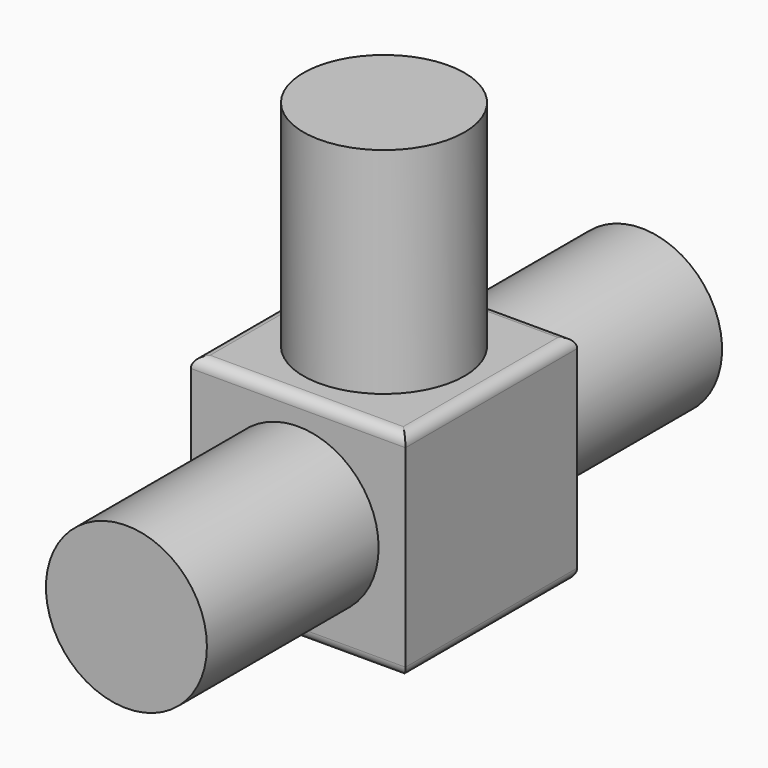
from build123d import *

# Parameters (mm, degrees)
F0_R     = 19.05
F1_DEPTH = 101.6
F0_W     = 50.8
F0_H     = 50.8
F2_DEPTH = 50.8
F3_R     = 19.05
F4_DEPTH = 50.8
F5_R     = 19.05
F6_DEPTH = 50.8
F7_R     = 2.54
F8_R     = 2.54


with BuildPart() as f1:
    # F0 (on Front) → F1 (new body)
    with BuildSketch(Plane.XZ):
        with Locations((25.4, 25.4)):
            Circle(F0_R)
    extrude(amount=F1_DEPTH)

    # F0 (on Front) → F2 (join)
    with BuildSketch(Plane.XZ):
        with Locations((25.4, 25.4)):
            Rectangle(F0_W, F0_H)
        with Locations((25.4, 25.4)):
            Circle(F0_R, mode=Mode.SUBTRACT)
    extrude(amount=F2_DEPTH)

    # F3 (on face) → F4 (join)
    with BuildSketch(Plane.XY.offset(50.8)):
        with Locations((25.4, -25.4)):
            Circle(F3_R)
    extrude(amount=F4_DEPTH)

    # F5 (on face) → F6 (join)
    with BuildSketch(Plane(origin=(0, 0, 0), x_dir=(-1, 0, 0), z_dir=(0, 1, 0))):
        with Locations((-25.4, 25.4)):
            Circle(F5_R)
    extrude(amount=F6_DEPTH)

    # F7
    f7_edges = [f1.edges().sort_by_distance(p)[0] for p in [
        (25.4, -50.8, 50.8),
        (50.8, -25.4, 50.8),
        (25.4, 0, 50.8),
        (0, -25.4, 50.8),
    ]]
    fillet(f7_edges, radius=F7_R)

    # F8
    f8_edges = [f1.edges().sort_by_distance(p)[0] for p in [
        (50.8, -25.4, 0),
        (25.4, -50.8, 0),
        (25.4, 0, 0),
        (0, -25.4, 0),
    ]]
    fillet(f8_edges, radius=F8_R)


solid = f1.part
